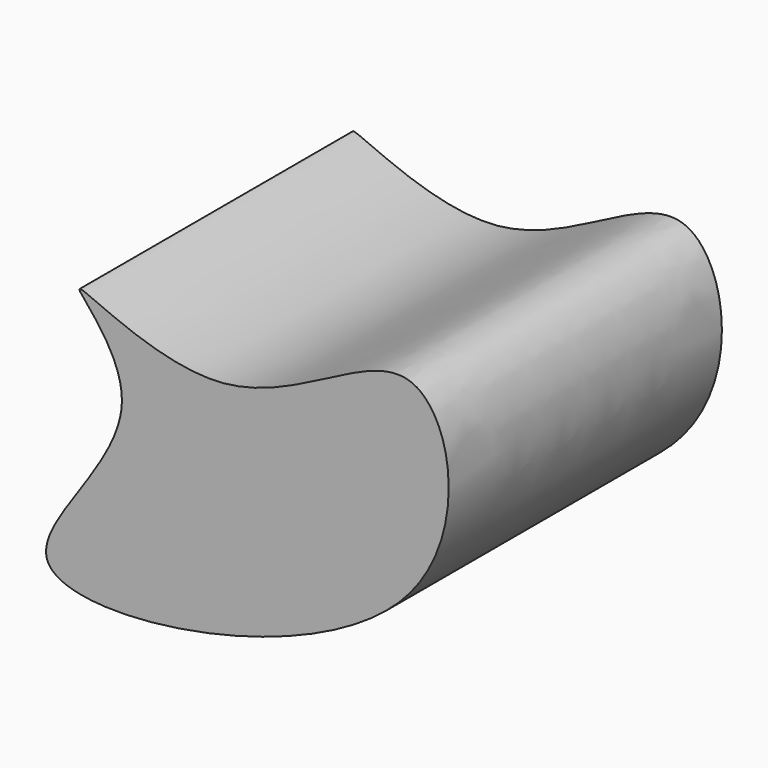
from build123d import *

# Parameters (mm, degrees)
F1_DEPTH = 76.2


with BuildPart() as f1:
    # F0 (on Front) → F1 (new body)
    with BuildSketch(Plane.XZ):
        with BuildLine():
            add(Edge.make_bspline(
                [(-39.9472750723, 36.5990921855), (-40.2688252441, 35.6657338188), (-16.3402630371, 15.7017814573), (-79.3635084439, -35.3850809183), (52.3425758062, -16.2190256696), (39.7328072014, 62.2690965939), (-4.358704927, 15.5766740683), (-39.5512380665, 37.7486622537), (-39.9472750723, 36.5990921855)],
                knots=[0, 0, 0, 0, 0.1186828926, 0.2818823191, 0.5146758277, 0.6818008674, 0.8538243125, 1, 1, 1, 1], degree=3))
        make_face()
    extrude(amount=F1_DEPTH)


solid = f1.part
